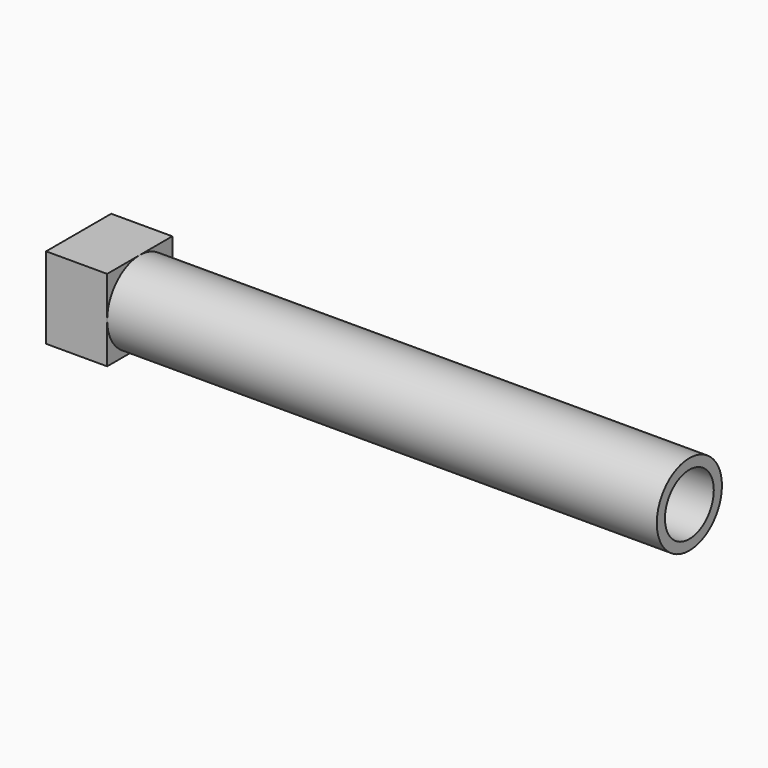
from build123d import *

# Parameters (mm, degrees)
F0_W     = 20
F0_H     = 20
F1_DEPTH = 15
F2_R     = 10
F2_R_2   = 7.5
F3_DEPTH = 135


with BuildPart() as f1:
    # F0 (on Right) → F1 (new body)
    with BuildSketch(Plane.YZ):
        Rectangle(F0_W, F0_H)
    extrude(amount=F1_DEPTH)

    # F2 (on face) → F3 (join)
    with BuildSketch(Plane.YZ.offset(15)):
        Circle(F2_R)
        Circle(F2_R_2, mode=Mode.SUBTRACT)
    extrude(amount=F3_DEPTH)


solid = f1.part
